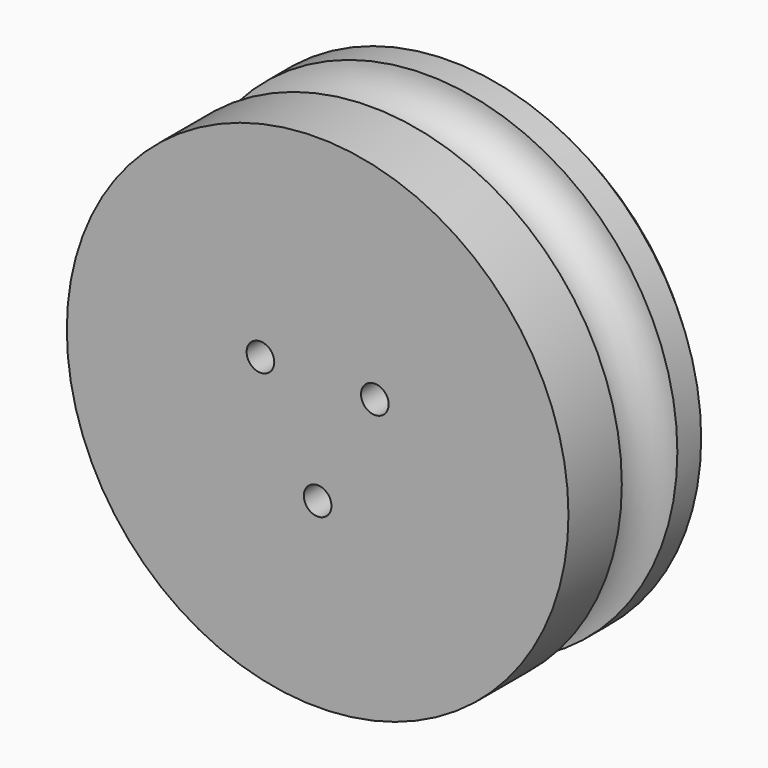
from build123d import *

# Parameters (mm, degrees)
F0_R     = 34.561988
F1_DEPTH = 25.4
F3_DEPTH = 5.08
F4_R     = 1.27
F5_R     = 4.785324
F7_SIZE  = 2.54
F8_R     = 1.905
F9_DEPTH = 15.24


with BuildPart() as f1:
    # F0 (on Front) → F1 (new body)
    with BuildSketch(Plane.XZ):
        Circle(F0_R)
        with BuildLine():
            ThreePointArc((16.74505, -23.154566), (0, -28.575), (-16.74505, -23.154566))
            Line((-16.74505, -23.154566), (-5.581683, -7.718189))
            ThreePointArc((-5.581683, -7.718189), (0, -9.525), (5.581683, -7.718189))
            Line((5.581683, -7.718189), (16.74505, -23.154566))
        make_face(mode=Mode.SUBTRACT)
        with BuildLine():
            Line((-25.330056, 13.22569), (-7.497648, 5.874598))
            ThreePointArc((-7.497648, 5.874598), (-9.525, 0), (-7.497648, -5.874598))
            Line((-7.497648, -5.874598), (-25.330056, -13.22569))
            ThreePointArc((-25.330056, -13.22569), (-28.575, 0), (-25.330056, 13.22569))
        make_face(mode=Mode.SUBTRACT)
        with BuildLine():
            ThreePointArc((7.497648, -5.874598), (9.525, 0), (7.497648, 5.874598))
            Line((7.497648, 5.874598), (25.330056, 13.22569))
            ThreePointArc((25.330056, 13.22569), (28.575, 0), (25.330056, -13.22569))
            Line((25.330056, -13.22569), (7.497648, -5.874598))
        make_face(mode=Mode.SUBTRACT)
        with BuildLine():
            Line((-5.581683, 7.718189), (-16.74505, 23.154566))
            ThreePointArc((-16.74505, 23.154566), (0, 28.575), (16.74505, 23.154566))
            Line((16.74505, 23.154566), (5.581683, 7.718189))
            ThreePointArc((5.581683, 7.718189), (0, 9.525), (-5.581683, 7.718189))
        make_face(mode=Mode.SUBTRACT)
        with BuildLine():
            Line((25.330056, 13.22569), (7.497648, 5.874598))
            ThreePointArc((7.497648, 5.874598), (9.525, 0), (7.497648, -5.874598))
            Line((7.497648, -5.874598), (25.330056, -13.22569))
            ThreePointArc((25.330056, -13.22569), (28.575, 0), (25.330056, 13.22569))
        make_face()
        with BuildLine():
            ThreePointArc((16.74505, 23.154566), (0, 28.575), (-16.74505, 23.154566))
            Line((-16.74505, 23.154566), (-5.581683, 7.718189))
            ThreePointArc((-5.581683, 7.718189), (0, 9.525), (5.581683, 7.718189))
            Line((5.581683, 7.718189), (16.74505, 23.154566))
        make_face()
        with BuildLine():
            ThreePointArc((-7.497648, -5.874598), (-9.525, 0), (-7.497648, 5.874598))
            Line((-7.497648, 5.874598), (-25.330056, 13.22569))
            ThreePointArc((-25.330056, 13.22569), (-28.575, 0), (-25.330056, -13.22569))
            Line((-25.330056, -13.22569), (-7.497648, -5.874598))
        make_face()
        with BuildLine():
            Line((-5.581683, -7.718189), (-16.74505, -23.154566))
            ThreePointArc((-16.74505, -23.154566), (0, -28.575), (16.74505, -23.154566))
            Line((16.74505, -23.154566), (5.581683, -7.718189))
            ThreePointArc((5.581683, -7.718189), (0, -9.525), (-5.581683, -7.718189))
        make_face()
    extrude(amount=F1_DEPTH)

    # F2 (on face) → F3 (cut)
    with BuildSketch(Plane(origin=(0, 0, 0), x_dir=(-1, 0, 0), z_dir=(0, 1, 0))):
        with BuildLine():
            ThreePointArc((-6.894682, -6.571833), (-9.525, 0), (-6.894682, 6.571833))
            Line((-6.894682, 6.571833), (-24.770568, 14.246038))
            ThreePointArc((-24.770568, 14.246038), (-28.575, 0), (-24.770568, -14.246038))
            Line((-24.770568, -14.246038), (-6.894682, -6.571833))
        make_face()
        with BuildLine():
            Line((-15.190351, 24.202972), (-5.06345, 8.067657))
            ThreePointArc((-5.06345, 8.067657), (0, 9.525), (5.06345, 8.067657))
            Line((5.06345, 8.067657), (15.190351, 24.202972))
            ThreePointArc((15.190351, 24.202972), (0, 28.575), (-15.190351, 24.202972))
        make_face()
        with BuildLine():
            Line((24.770568, 14.246038), (6.894682, 6.571833))
            ThreePointArc((6.894682, 6.571833), (9.525, 0), (6.894682, -6.571833))
            Line((6.894682, -6.571833), (24.770568, -14.246038))
            ThreePointArc((24.770568, -14.246038), (28.575, 0), (24.770568, 14.246038))
        make_face()
        with BuildLine():
            ThreePointArc((5.06345, -8.067657), (0, -9.525), (-5.06345, -8.067657))
            Line((-5.06345, -8.067657), (-15.190351, -24.202972))
            ThreePointArc((-15.190351, -24.202972), (0, -28.575), (15.190351, -24.202972))
            Line((15.190351, -24.202972), (5.06345, -8.067657))
        make_face()
    extrude(amount=-F3_DEPTH, mode=Mode.SUBTRACT)

    # F4
    f4_edges = [f1.edges().sort_by_distance(p)[0] for p in [
        (24.770568, -2.54, 14.246038),
        (24.770568, -2.54, -14.246038),
        (6.894682, -2.54, -6.571833),
        (6.894682, -2.54, 6.571833),
        (5.06345, -2.54, 8.067657),
        (15.190351, -2.54, 24.202972),
        (-15.190351, -2.54, 24.202972),
        (-5.06345, -2.54, 8.067657),
        (-6.894682, -2.54, 6.571833),
        (-6.894682, -2.54, -6.571833),
        (-24.770568, -2.54, -14.246038),
        (-24.770568, -2.54, 14.246038),
        (-5.06345, -2.54, -8.067657),
        (5.06345, -2.54, -8.067657),
        (15.190351, -2.54, -24.202972),
        (-15.190351, -2.54, -24.202972),
    ]]
    fillet(f4_edges, radius=F4_R)

    # F5 (on Top) → F6 (revolve, cut)
    with BuildSketch(Plane.XY):
        with Locations((34.664739, -11.4271)):
            Circle(F5_R)
    revolve(axis=Axis((0, 0, 0), (0, 1, 0)), mode=Mode.SUBTRACT)

    # F7
    f7_edges = [f1.edges().sort_by_distance(p)[0] for p in [
        (-34.561988, 0, 0),
    ]]
    chamfer(f7_edges, length=F7_SIZE)

    # F8 (on face) → F9 (cut)
    with BuildSketch(Plane.XZ.offset(25.4)):
        with Locations((-7.88021, 5.350506)):
            Circle(F8_R)
        with Locations((7.88021, 5.350506)):
            Circle(F8_R)
        with Locations((0, -9.525)):
            Circle(F8_R)
    extrude(amount=-F9_DEPTH, mode=Mode.SUBTRACT)


solid = f1.part
